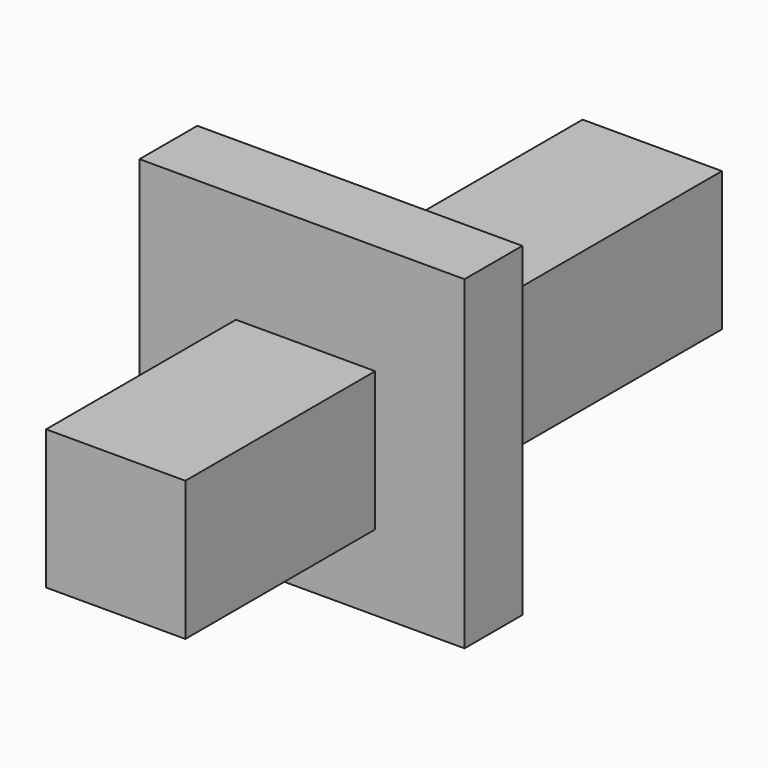
from build123d import *

# Parameters (mm, degrees)
F0_W          = 3.429
F0_H          = 3.429
F1_DEPTH      = 5.842
F1_DEPTH_BACK = 10.668
F0_W_2        = 8.001
F0_H_2        = 8.001
F2_DEPTH      = 1.778


with BuildPart() as f1:
    # F0 (on Front) → F1 (new body, two sides)
    with BuildSketch(Plane.XZ) as f1_sk:
        with Locations((-54.44314, 14.415071)):
            Rectangle(F0_W, F0_H)
    extrude(amount=F1_DEPTH)
    extrude(f1_sk.sketch, amount=-F1_DEPTH_BACK)

    # F0 (on Front) → F2 (join)
    with BuildSketch(Plane.XZ):
        with Locations((-54.53074, 14.837216)):
            Rectangle(F0_W_2, F0_H_2)
        with Locations((-54.44314, 14.415071)):
            Rectangle(F0_W, F0_H, mode=Mode.SUBTRACT)
    extrude(amount=-F2_DEPTH)


solid = f1.part
